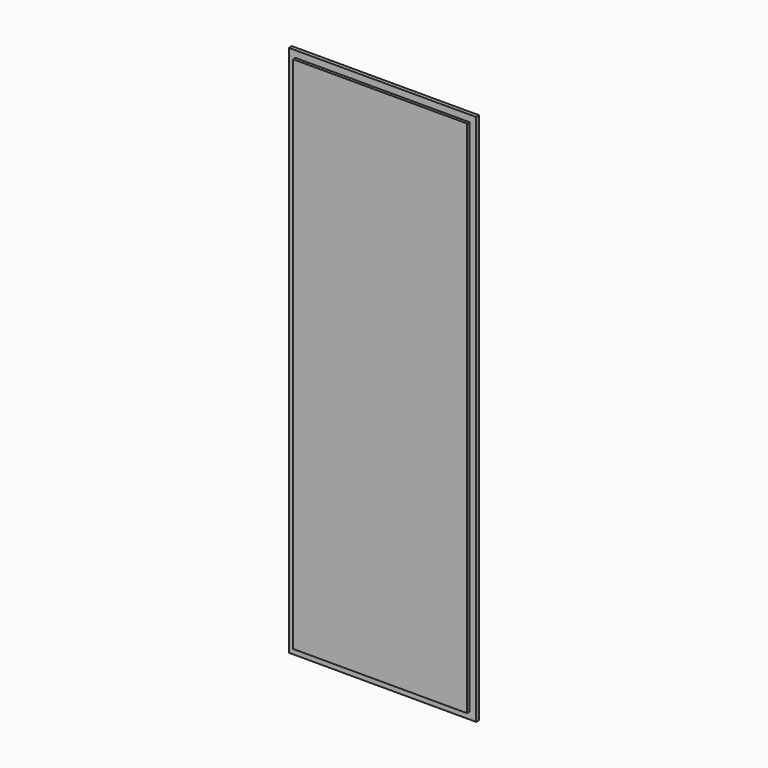
from build123d import *

# Parameters (mm, degrees)
SKETCH_W     = 500
SKETCH_H     = 1422
PAD_DEPTH    = 10
SKETCH001_W  = 464
SKETCH001_H  = 1386
PAD001_DEPTH = 8


with BuildPart() as part:
    # Sketch → Pad (new body)
    with BuildSketch(Plane.XZ):
        with Locations((-250, 711)):
            Rectangle(SKETCH_W, SKETCH_H)
    extrude(amount=PAD_DEPTH)

    # Sketch001 (on Face6 of Pad) → Pad001 (join)
    with BuildSketch(Plane.XZ.offset(10)):
        with Locations((-250, 711)):
            Rectangle(SKETCH001_W, SKETCH001_H)
    extrude(amount=PAD001_DEPTH)


solid = part.part
